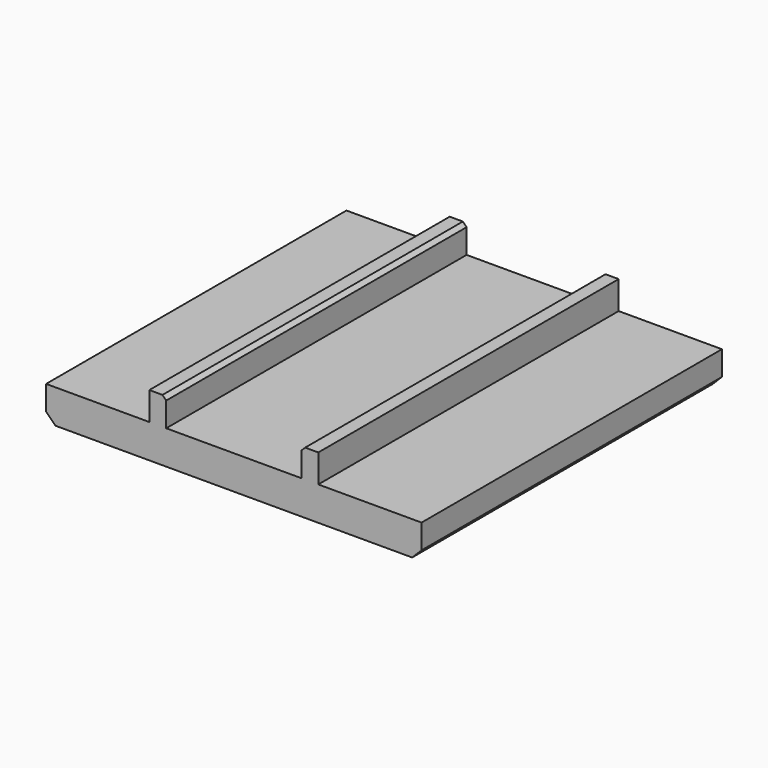
from build123d import *

# Parameters (mm, degrees)
BOX002_W           = 1.8
BOX002_H           = 40
BOX002_DEPTH       = 3
CHAMFER001_SIZE    = 0.4
BOX001_W           = 1.8
BOX001_H           = 40
BOX001_DEPTH       = 3
CHAMFER_SIZE       = 0.4
BOX_W              = 40
BOX_H              = 40
BOX_DEPTH          = 3.6
CHAMFER001003_SIZE = 1


with BuildPart() as chamfer001:
    # Box002 → Box002 (new body)
    with BuildSketch(Plane(origin=(7.2, 0, 0), x_dir=(1, 0, 0), z_dir=(0, 0, 1))):
        with Locations((0.9, 20)):
            Rectangle(BOX002_W, BOX002_H)
    extrude(amount=BOX002_DEPTH)

    # Chamfer001
    chamfer001_edges = [chamfer001.edges().sort_by_distance(p)[0] for p in [
        (7.2, 20, 3),
    ]]
    chamfer(chamfer001_edges, length=CHAMFER001_SIZE)


with BuildPart() as chamfer_body:
    # Box001 → Box001 (new body)
    with BuildSketch(Plane(origin=(-9, 0, 0), x_dir=(1, 0, 0), z_dir=(0, 0, 1))):
        with Locations((0.9, 20)):
            Rectangle(BOX001_W, BOX001_H)
    extrude(amount=BOX001_DEPTH)

    # Chamfer
    chamfer_edges = [chamfer_body.edges().sort_by_distance(p)[0] for p in [
        (-7.2, 20, 3),
    ]]
    chamfer(chamfer_edges, length=CHAMFER_SIZE)


with BuildPart() as fusion:
    # Box → Box (new body)
    with BuildSketch(Plane(origin=(-20, 0, -3.6), x_dir=(1, 0, 0), z_dir=(0, 0, 1))):
        with Locations((20, 20)):
            Rectangle(BOX_W, BOX_H)
    extrude(amount=BOX_DEPTH)

    # Chamfer001003
    chamfer001003_edges = [fusion.edges().sort_by_distance(p)[0] for p in [
        (-20, 20, -3.6),
        (20, 20, -3.6),
    ]]
    chamfer(chamfer001003_edges, length=CHAMFER001003_SIZE)

    # Fusion: union Chamfer001, Chamfer body
    add(chamfer001.part)
    add(chamfer_body.part)


solid = fusion.part
